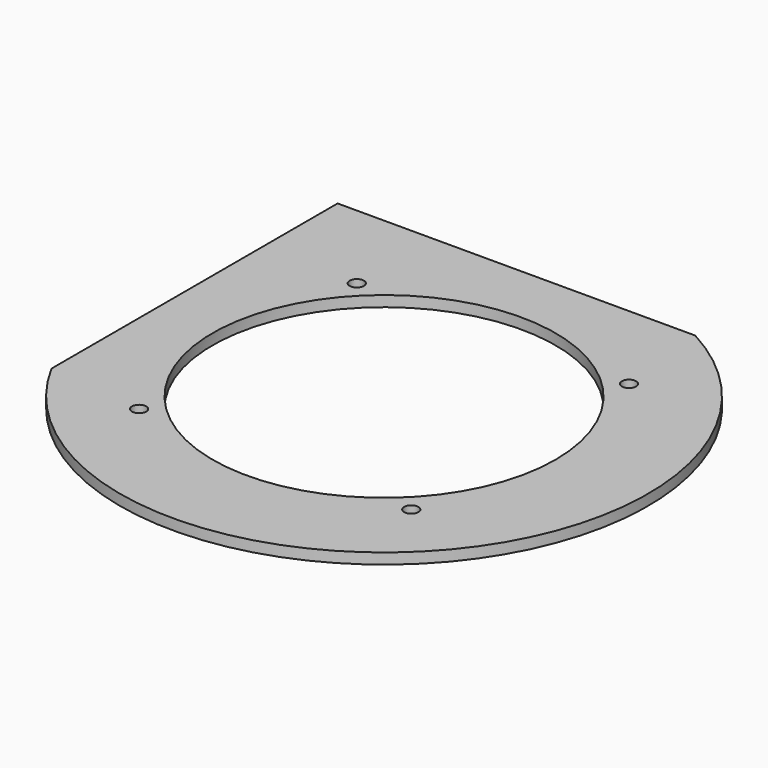
from build123d import *

# Parameters (mm, degrees)
F0_R     = 2
F0_R_2   = 48
F1_DEPTH = 3


with BuildPart() as f1:
    # F0 (on Top) → F1 (new body)
    with BuildSketch(Plane.XY):
        with BuildLine():
            Line((-65, 65), (-65, -35.120955))
            ThreePointArc((-65, -35.120955), (52.242136, -52.242136), (35.120955, 65))
            Line((35.120955, 65), (-65, 65))
        make_face()
        with Locations((-38.1, -38.1)):
            Circle(F0_R, mode=Mode.SUBTRACT)
        with Locations((38.1, -38.1)):
            Circle(F0_R, mode=Mode.SUBTRACT)
        Circle(F0_R_2, mode=Mode.SUBTRACT)
        with Locations((-38.1, 38.1)):
            Circle(F0_R, mode=Mode.SUBTRACT)
        with Locations((38.1, 38.1)):
            Circle(F0_R, mode=Mode.SUBTRACT)
        with BuildLine():
            Line((-65, 65), (-65, -35.120955))
            ThreePointArc((-65, -35.120955), (52.242136, -52.242136), (35.120955, 65))
            Line((35.120955, 65), (-65, 65))
        make_face()
        with Locations((-38.1, -38.1)):
            Circle(F0_R, mode=Mode.SUBTRACT)
        with Locations((38.1, -38.1)):
            Circle(F0_R, mode=Mode.SUBTRACT)
        Circle(F0_R_2, mode=Mode.SUBTRACT)
        with Locations((-38.1, 38.1)):
            Circle(F0_R, mode=Mode.SUBTRACT)
        with Locations((38.1, 38.1)):
            Circle(F0_R, mode=Mode.SUBTRACT)
    extrude(amount=F1_DEPTH)


solid = f1.part
